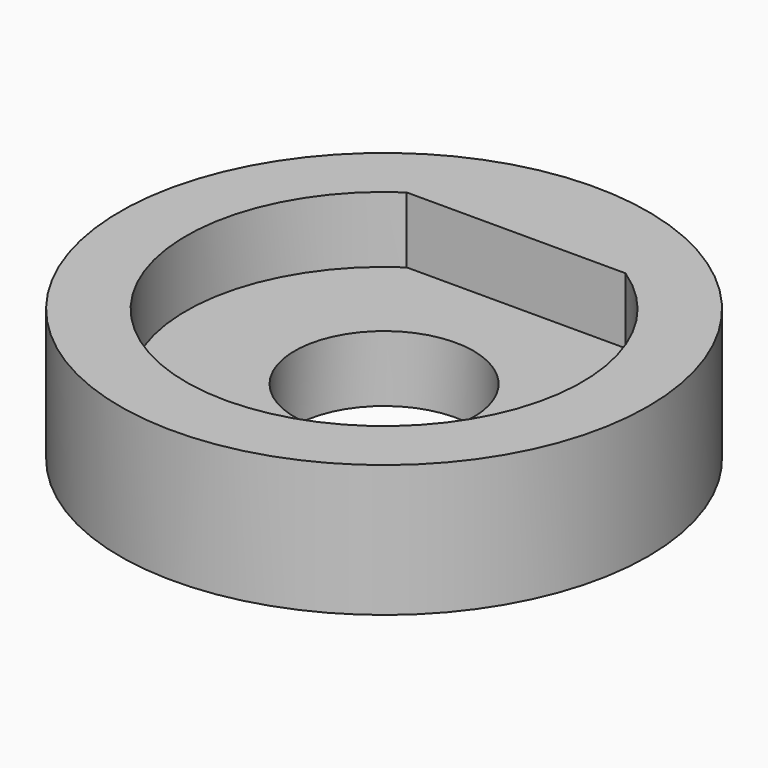
from build123d import *

# Parameters (mm, degrees)
F0_R     = 6.35
F0_R_2   = 2.15265
F1_DEPTH = 1.5875
F2_R     = 6.35
F3_DEPTH = 1.5875


with BuildPart() as f1:
    # F0 (on Top) → F1 (new body)
    with BuildSketch(Plane.XY):
        Circle(F0_R)
        Circle(F0_R_2, mode=Mode.SUBTRACT)
    extrude(amount=F1_DEPTH)

    # F2 (on face) → F3 (join)
    with BuildSketch(Plane.XY.offset(1.5875)):
        Circle(F2_R)
        with BuildLine():
            ThreePointArc((2.632571, 3.96875), (0, -4.7625), (-2.632571, 3.96875))
            Line((-2.632571, 3.96875), (2.632571, 3.96875))
        make_face(mode=Mode.SUBTRACT)
    extrude(amount=F3_DEPTH)


solid = f1.part
